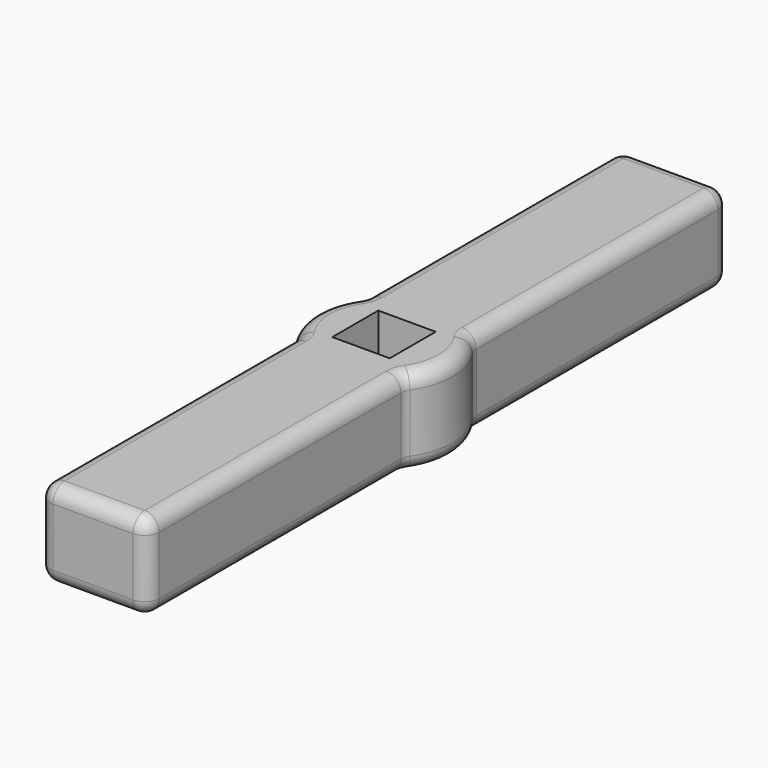
from build123d import *

# Parameters (mm, degrees)
F0_W     = 7.9
F0_H     = 7.9
F1_DEPTH = 12
F2_R     = 2


with BuildPart() as f1:
    # F0 (on Top) → F1 (new body)
    with BuildSketch(Plane.XY):
        with BuildLine():
            Line((-7.5, -5.830952), (-7.5, -50))
            Line((-7.5, -50), (7.5, -50))
            Line((7.5, -50), (7.5, -5.830952))
            ThreePointArc((7.5, -5.830952), (9.5, 0), (7.5, 5.830952))
            Line((7.5, 5.830952), (7.5, 50))
            Line((7.5, 50), (-7.5, 50))
            Line((-7.5, 50), (-7.5, 5.830952))
            ThreePointArc((-7.5, 5.830952), (-9.5, 0), (-7.5, -5.830952))
        make_face()
        Rectangle(F0_W, F0_H, mode=Mode.SUBTRACT)
    extrude(amount=F1_DEPTH)

    # F2
    f2_edges = [f1.edges().sort_by_distance(p)[0] for p in [
        (0, -50, 12),
        (7.5, -27.915476, 12),
        (-7.5, -27.915476, 12),
        (7.5, 27.915476, 12),
        (-7.5, 27.915476, 12),
        (9.5, 0, 12),
        (-9.5, 0, 12),
        (0, 50, 12),
        (7.5, -50, 6),
        (7.5, -27.915476, 0),
        (0, -50, 0),
        (-7.5, -50, 6),
        (-9.5, 0, 0),
        (-7.5, -27.915476, 0),
        (-7.5, 27.915476, 0),
        (7.5, 27.915476, 0),
        (9.5, 0, 0),
        (7.5, 50, 6),
        (-7.5, 50, 6),
        (0, 50, 0),
        (7.5, 5.830952, 6),
        (7.5, -5.830952, 6),
        (-7.5, -5.830952, 6),
        (-7.5, 5.830952, 6),
    ]]
    fillet(f2_edges, radius=F2_R)


solid = f1.part
